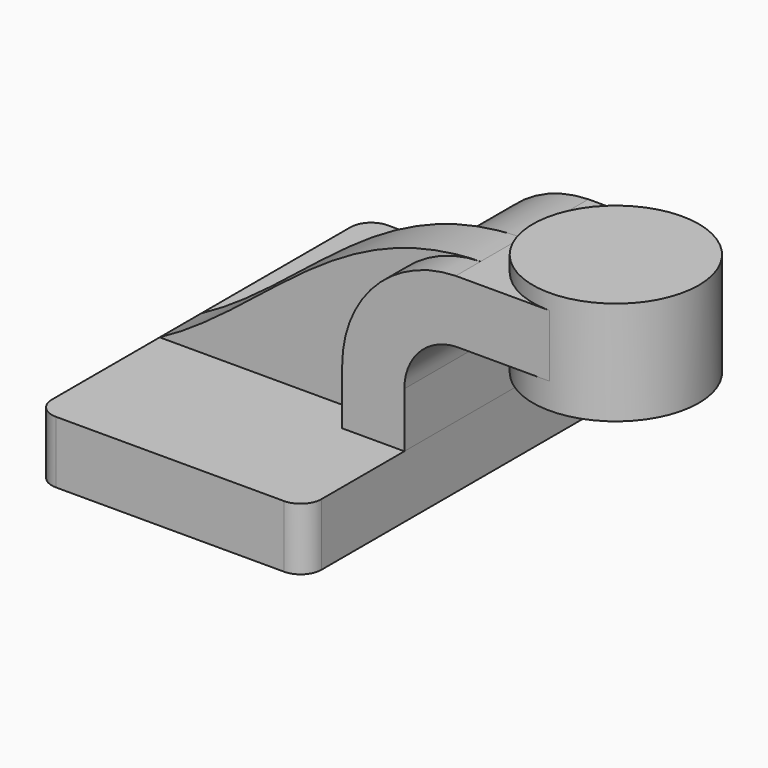
from build123d import *

# Parameters (mm, degrees)
F3_DEPTH = 15.875
F0_W     = 25.4
F0_H     = 19.05
F4_DEPTH = 25.4
F5_DEPTH = 63.5
F6_R     = 6.35


with BuildPart() as f2:
    # F0 (on Front) → F2 (revolve)
    with BuildSketch(Plane.XZ):
        Polygon((85.725, 61.9252), (85.725, 42.8752), (85.725, 34.925), (111.125, 34.925), (111.125, 66.675), (85.725, 66.675), align=None)
    revolve(axis=Axis((85.725, 0, 50.8), (0, 0, -1)))


with BuildPart() as f3:
    # F0 (on Front) → F3 (new body)
    with BuildSketch(Plane.XZ):
        with BuildLine():
            Line((-41.275, 9.525), (22.225, 9.525))
            Line((22.225, 9.525), (22.225, 26.3739573205))
            ThreePointArc((22.225, 26.3739573205), (32.3628102484, 51.2381055712), (56.9958587309, 61.9252))
            add(Edge.make_bspline(
                [(-41.275, 9.525), (-8.5180470897, 26.9917333333), (12.7523746341, 60.962986201), (56.9958587309, 61.9252)],
                knots=[0, 0, 0, 0, 111.3684992974, 111.3684992974, 111.3684992974, 111.3684992974], degree=3))
        make_face()
    extrude(amount=F3_DEPTH)


with BuildPart() as f4:
    # F0 (on Front) → F4 (new body, symmetric)
    with BuildSketch(Plane.XZ):
        with BuildLine():
            Line((22.225, 9.525), (41.275, 9.525))
            Line((41.275, 9.525), (41.275, 26.3739573205))
            ThreePointArc((41.275, 26.3739573205), (45.9220946413, 37.8566214909), (57.2473290673, 42.8752))
            Line((57.2473290673, 42.8752), (60.325, 42.8752))
            Line((60.325, 42.8752), (60.325, 61.9252))
            Line((60.325, 61.9252), (56.9958587309, 61.9252))
            ThreePointArc((56.9958587309, 61.9252), (32.3628102484, 51.2381055712), (22.225, 26.3739573205))
            Line((22.225, 26.3739573205), (22.225, 9.525))
        make_face()
        with Locations((73.025, 52.4002)):
            Rectangle(F0_W, F0_H)
    extrude(amount=F4_DEPTH, both=True)


with BuildPart() as f5:
    # F0 (on Front) → F5 (new body, symmetric)
    with BuildSketch(Plane.XZ):
        Polygon((41.275, -9.525), (41.275, 9.525), (22.225, 9.525), (-41.275, 9.525), (-41.275, -9.525), align=None)
    extrude(amount=F5_DEPTH, both=True)

    # F6
    f6_edges = [f5.edges().sort_by_distance(p)[0] for p in [
        (41.275, -63.5, 0),
        (-41.275, -63.5, 0),
        (41.275, 63.5, 0),
        (-41.275, 63.5, 0),
    ]]
    fillet(f6_edges, radius=F6_R)


solid = Compound([f2.part, f3.part, f4.part, f5.part])
